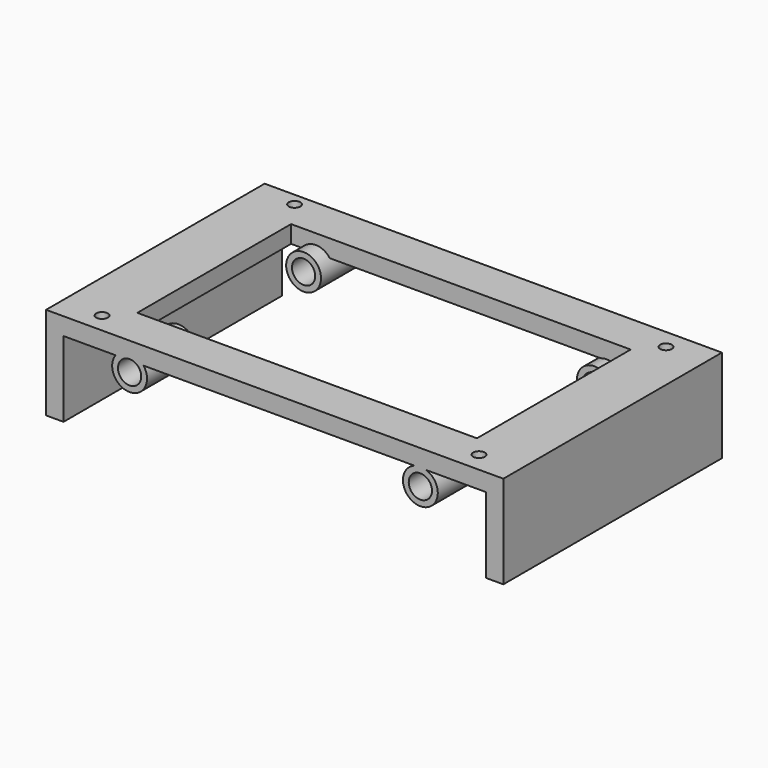
from build123d import *

# Parameters (mm, degrees)
F0_W     = 72.6709449252
F0_H     = 47
F0_R     = 1
F0_W_2   = 58.4303468724
F0_H_2   = 33.0635516279
F1_DEPTH = 3
F2_W     = 3
F2_H     = 47
F3_DEPTH = 16
F4_R     = 3
F5_DEPTH = 47
F6_R     = 2
F7_DEPTH = 59
F8_W     = 58.4303468724
F8_H     = 26.9109723158
F9_DEPTH = 25


with BuildPart() as f1:
    # F0 (on Top) → F1 (new body)
    with BuildSketch(Plane.XY):
        with Locations((-6.0011862931, 6.6216193669)):
            Rectangle(F0_W, F0_H)
        with Locations((-38.4287770241, -13.4855430331)):
            Circle(F0_R, mode=Mode.SUBTRACT)
        with Locations((-6.0011862931, 6.6216193669)):
            Rectangle(F0_W_2, F0_H_2, mode=Mode.SUBTRACT)
        with Locations((26.3990384156, -13.4553477725)):
            Circle(F0_R, mode=Mode.SUBTRACT)
        with Locations((-38.4287770241, 27.9226825441)):
            Circle(F0_R, mode=Mode.SUBTRACT)
        with Locations((26.426404438, 26.7287817669)):
            Circle(F0_R, mode=Mode.SUBTRACT)
        with Locations((-6.0011862931, 6.6216193669)):
            Rectangle(F0_W, F0_H)
        with Locations((-38.4287770241, -13.4855430331)):
            Circle(F0_R, mode=Mode.SUBTRACT)
        with Locations((-6.0011862931, 6.6216193669)):
            Rectangle(F0_W_2, F0_H_2, mode=Mode.SUBTRACT)
        with Locations((26.3990384156, -13.4553477725)):
            Circle(F0_R, mode=Mode.SUBTRACT)
        with Locations((-38.4287770241, 27.9226825441)):
            Circle(F0_R, mode=Mode.SUBTRACT)
        with Locations((26.426404438, 26.7287817669)):
            Circle(F0_R, mode=Mode.SUBTRACT)
    extrude(amount=F1_DEPTH)

    # F2 (on face) → F3 (join)
    with BuildSketch(Plane.XY.offset(3)):
        with Locations((31.8342861695, 6.6216193669)):
            Rectangle(F2_W, F2_H)
        with Locations((-43.8366587557, 6.6216193669)):
            Rectangle(F2_W, F2_H)
    extrude(amount=-F3_DEPTH)

    # F4 (on face) → F5 (join)
    with BuildSketch(Plane(origin=(0, 30.1216193669, 0), x_dir=(-1, 0, 0), z_dir=(0, 1, 0))):
        with Locations((-19.05452002, -2.8200918249)):
            Circle(F4_R)
        with Locations((30.9695991276, -1.7886548301)):
            Circle(F4_R)
    extrude(amount=-F5_DEPTH)

    # F6 (on face) → F7 (cut)
    with BuildSketch(Plane(origin=(0, 30.1216193669, 0), x_dir=(-1, 0, 0), z_dir=(0, 1, 0))):
        with Locations((30.9695991276, -1.7886548301)):
            Circle(F6_R)
        with Locations((-19.05452002, -2.8200918249)):
            Circle(F6_R)
    extrude(amount=-F7_DEPTH, mode=Mode.SUBTRACT)

    # F8 (on face) → F9 (cut)
    with BuildSketch(Plane.XY.offset(3)):
        with Locations((-6.0011862931, 7.0818343665)):
            Rectangle(F8_W, F8_H)
    extrude(amount=-F9_DEPTH, mode=Mode.SUBTRACT)


solid = f1.part
